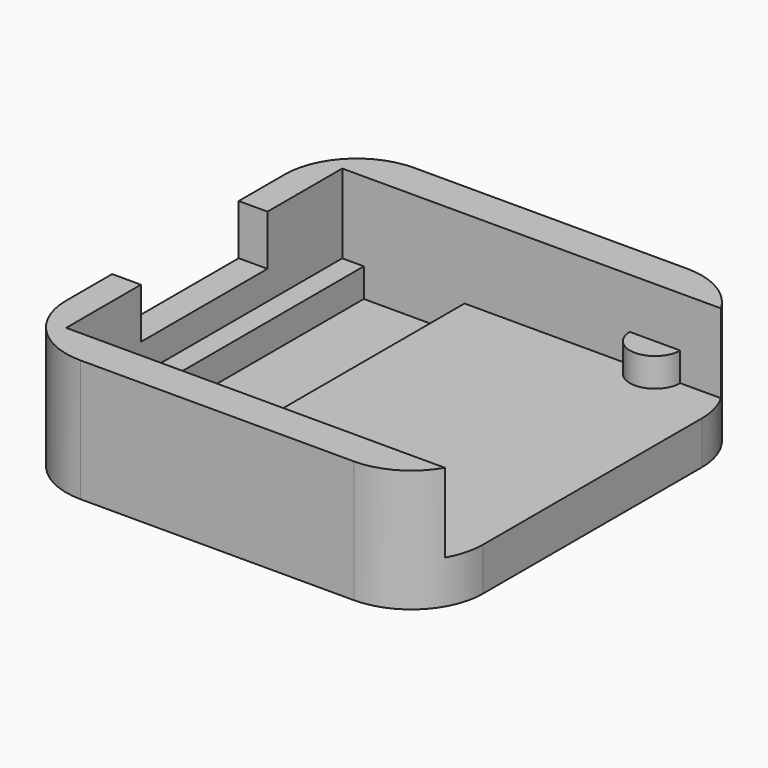
from build123d import *

# Parameters (mm, degrees)
SKETCH_W        = 29
SKETCH_H        = 29
PAD_DEPTH       = 8.5
SKETCH001_W     = 27
SKETCH001_H     = 24
POCKET_DEPTH    = 5.5
SKETCH002_W     = 7
SKETCH002_H     = 24
POCKET001_DEPTH = 2
SKETCH003_R     = 1.75
PAD001_DEPTH    = 2
SKETCH004_W     = 2
SKETCH004_H     = 11
POCKET002_DEPTH = 3.5
POCKET003_DEPTH = 8.501


with BuildPart() as part:
    # Sketch → Pad (new body)
    with BuildSketch(Plane.XY):
        with Locations((14.5, 14.5)):
            Rectangle(SKETCH_W, SKETCH_H)
    extrude(amount=PAD_DEPTH)

    # Sketch001 (on Face6 of Pad) → Pocket (cut)
    with BuildSketch(Plane.XY.offset(8.5)):
        with Locations((15.5, 14.5)):
            Rectangle(SKETCH001_W, SKETCH001_H)
    extrude(amount=-POCKET_DEPTH, mode=Mode.SUBTRACT)

    # Sketch002 (on Face8 of Pocket) → Pocket001 (cut)
    with BuildSketch(Plane.XY.offset(3)):
        with Locations((7, 14.5)):
            Rectangle(SKETCH002_W, SKETCH002_H)
    extrude(amount=-POCKET001_DEPTH, mode=Mode.SUBTRACT)

    # Sketch003 (on Face7 of Pocket001) → Pad001 (join)
    with BuildSketch(Plane.XY.offset(3)):
        with Locations((23.75, 2.5)):
            Circle(SKETCH003_R)
        with Locations((23.75, 26.5)):
            Circle(SKETCH003_R)
    extrude(amount=PAD001_DEPTH)

    # Sketch004 (on Face5 of Pad001) → Pocket002 (cut)
    with BuildSketch(Plane.XY.offset(8.5)):
        with Locations((1, 14.5)):
            Rectangle(SKETCH004_W, SKETCH004_H)
    extrude(amount=-POCKET002_DEPTH, mode=Mode.SUBTRACT)

    # Sketch005 (on Face4 of Pocket002) → Pocket003 (cut, through all)
    with BuildSketch(Plane(origin=(0, 0, 0), x_dir=(1, 0, 0), z_dir=(0, 0, -1))):
        with BuildLine():
            ThreePointArc((5, 0), (1.464466, -1.464466), (0, -5))
            Line((0, 0), (0, -5))
            Line((0, 0), (5, 0))
        make_face()
        with BuildLine():
            ThreePointArc((0, -24), (1.464466, -27.535534), (5, -29))
            Line((0, -29), (5, -29))
            Line((0, -29), (0, -24))
        make_face()
        with BuildLine():
            ThreePointArc((29, -5), (27.535534, -1.464466), (24, 0))
            Line((29, 0), (24, 0))
            Line((29, 0), (29, -5))
        make_face()
        with BuildLine():
            ThreePointArc((24, -29), (27.535534, -27.535534), (29, -24))
            Line((29, -29), (29, -24))
            Line((29, -29), (24, -29))
        make_face()
    extrude(amount=-POCKET003_DEPTH, mode=Mode.SUBTRACT)


solid = part.part
